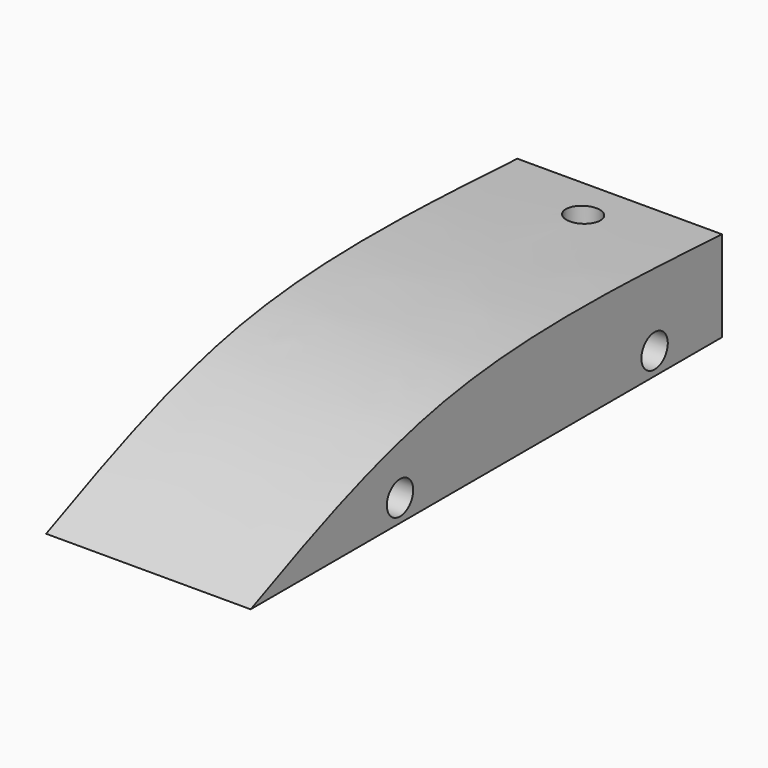
from build123d import *

# Parameters (mm, degrees)
F1_DEPTH = 41.91
F3_D     = 6.7564
F5_D     = 6.7564
F5_DEPTH = 12.7
F5_TIP   = 2.0298273432
F7_D     = 6.7564
F8_R     = 3.4841261701
F9_DEPTH = 9.398


with BuildPart() as f1:
    # F0 (on Right) → F1 (new body)
    with BuildSketch(Plane.YZ):
        with BuildLine():
            add(Edge.make_bspline(
                [(-61.1524246633, 0), (-45.2024810028, 7.122572143), (-10.9378282084, 22.4237209544), (34.9882428649, 19.9241960467), (59.5360659063, 18.5881815851)],
                knots=[0, 0, 0, 0, 0.4654926392, 1, 1, 1, 1], degree=3))
            Line((-61.1524246633, 0), (59.5360659063, 0))
            Line((59.5360659063, 0), (59.5360659063, 18.5881815851))
        make_face()
    extrude(amount=F1_DEPTH)

    # F3 (through all)
    with Locations(Plane.YZ.offset(41.91)):
        with Locations((-22.8984840214, 4.5796968043), (42.2948487103, 4.5796968043)):
            Hole(F3_D / 2)

    # F5
    with Locations(Plane(origin=(0, 59.5360659063, 0), x_dir=(-1, 0, 0), z_dir=(0, 1, 0))):
        with Locations((-20.955, 12.6615148038)):
            Hole(F5_D / 2, depth=F5_DEPTH)
            with Locations((0, 0, -(F5_DEPTH + F5_TIP / 2))):  # 118° drill point
                Cone(0, F5_D / 2, F5_TIP, mode=Mode.SUBTRACT)

    # F7 (through all)
    with Locations(Plane(origin=(0, 0, 0), x_dir=(1, 0, 0), z_dir=(0, 0, -1))):
        with Locations((20.955, -50.1895733178)):
            Hole(F7_D / 2)

    # F8 (on face) → F9 (join)
    with BuildSketch(Plane(origin=(0, 0, 0), x_dir=(1, 0, 0), z_dir=(0, 0, -1))):
        with Locations((20.955, -50.1895733178)):
            Circle(F8_R)
    extrude(amount=-F9_DEPTH)


solid = f1.part
